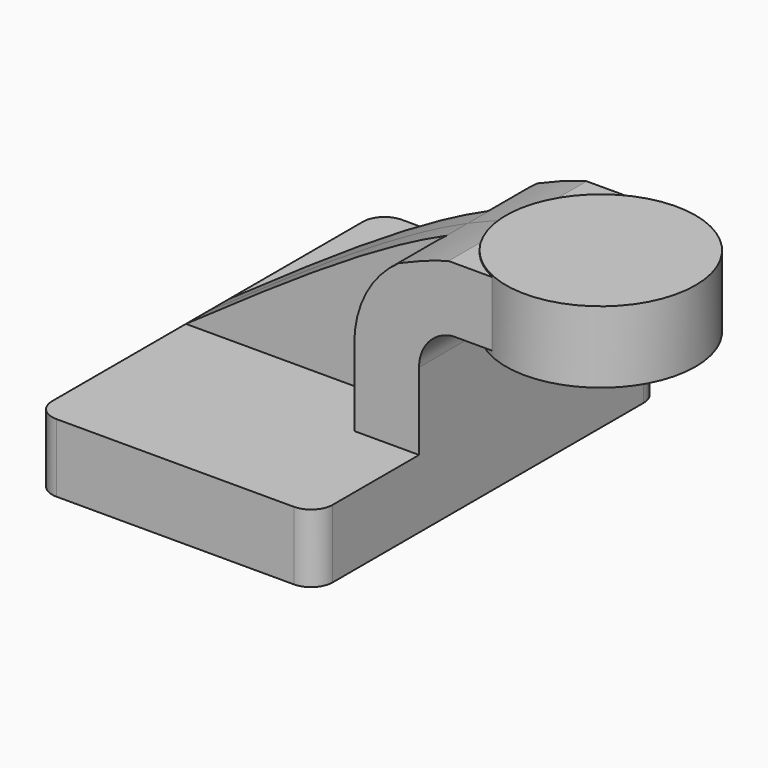
from build123d import *

# Parameters (mm, degrees)
F1_DEPTH = 63.5
F2_DEPTH = 25.4
F3_DEPTH = 7.9375
F4_R     = 27.8728367349
F5_DEPTH = 63.5
F6_DEPTH = 42.418
F7_R     = 6.35


with BuildPart() as f1:
    # F0 (on Front) → F1 (new body, symmetric)
    with BuildSketch(Plane.XZ):
        Polygon((41.275, -10.04768112), (41.275, 10.04768112), (22.225, 10.04768112), (-41.275, 10.04768112), (-41.275, -10.04768112), align=None)
    extrude(amount=F1_DEPTH, both=True)

    # F0 (on Front) → F2 (join, symmetric)
    with BuildSketch(Plane.XZ):
        with BuildLine():
            Line((22.225, 10.04768112), (41.275, 10.04768112))
            Line((41.275, 10.04768112), (41.275, 32.7466142374))
            ThreePointArc((41.275, 32.7466142374), (44.0462635088, 40.2080273698), (51.0162711539, 44.0514087971))
            Line((51.0162711539, 44.0514087971), (62.7183187845, 44.0514087971))
            Line((62.7183187845, 44.0514087971), (62.7183187845, 63.1014087971))
            Line((62.7183187845, 63.1014087971), (49.9424132783, 63.1014087971))
            add(Edge.make_bspline(
                [(35.3324258873, 57.7911980863), (40.4505273994, 60.0549715303), (45.3379731216, 61.8597652076), (49.9424132783, 63.1014087971)],
                knots=[0.5056708744, 0.5056708744, 0.5056708744, 0.5056708744, 0.620438237, 0.620438237, 0.620438237, 0.620438237], degree=3))
            ThreePointArc((35.3324258873, 57.7911980863), (25.6999386791, 46.8802248302), (22.225, 32.7466142374))
            Line((22.225, 32.7466142374), (22.225, 10.04768112))
        make_face()
    extrude(amount=F2_DEPTH, both=True)

    # F0 (on Front) → F3 (join, symmetric)
    with BuildSketch(Plane.XZ):
        with BuildLine():
            Line((-41.275, 10.04768112), (22.225, 10.04768112))
            Line((22.225, 10.04768112), (22.225, 32.7466142374))
            ThreePointArc((22.225, 32.7466142374), (25.6999386791, 46.8802248302), (35.3324258873, 57.7911980863))
            add(Edge.make_bspline(
                [(-41.275, 10.04768112), (-14.2465956817, 28.9322887665), (12.7818086366, 47.816896413), (35.3324258873, 57.7911980863)],
                knots=[0, 0, 0, 0, 0.5056708744, 0.5056708744, 0.5056708744, 0.5056708744], degree=3))
        make_face()
    extrude(amount=F3_DEPTH, both=True)

    # F4 (on Top) → F5 (join)
    with BuildSketch(Plane.XY):
        with Locations((74.4178891182, 0)):
            Circle(F4_R)
    extrude(amount=F5_DEPTH)

    # F6 (cut): a face of the model
    f6_faces = [f1.faces().sort_by_distance(p)[0] for p in [
        (74.4178891182, 0, 0),
    ]]
    extrude(f6_faces, amount=-F6_DEPTH, mode=Mode.SUBTRACT)

    # F7
    f7_edges = [f1.edges().sort_by_distance(p)[0] for p in [
        (-41.275, -63.5, 0),
        (-41.275, 63.5, 0),
        (41.275, -63.5, 0),
        (41.275, 63.5, 0),
    ]]
    fillet(f7_edges, radius=F7_R)


solid = f1.part
